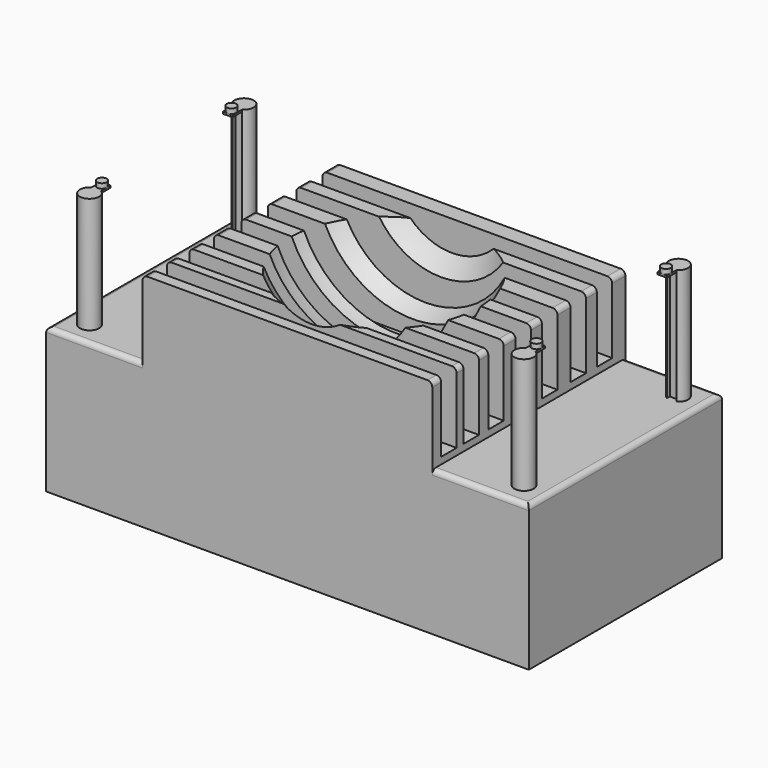
from build123d import *

# Parameters (mm, degrees)
F0_W      = 127
F0_H      = 63.5
F1_DEPTH  = 38.1
F2_W      = 76.2
F2_H      = 63.5
F3_DEPTH  = 20.32
F5_W      = 85.9366810061
F5_H      = 5.08
F6_DEPTH  = 34.798
F7_R      = 1.27
F12_R     = 2.54
F13_DEPTH = 30.48
F14_R     = 2.54
F15_DEPTH = 30.48
F17_W     = 2.54
F17_H     = 48.26
F18_DEPTH = 30.734
F19_W     = 2.54
F19_H     = 0.508
F20_DEPTH = 4.0894
F21_R     = 1.27
F22_DEPTH = 1.27
F23_W     = 2.54
F23_H     = 0.508
F24_DEPTH = 4.0894
F26_DEPTH = 1.27
F27_W     = 2.54
F27_H     = 0.508
F28_DEPTH = 4.0894
F29_R     = 1.27
F30_DEPTH = 1.27
F31_W     = 2.54
F31_H     = 0.508
F32_DEPTH = 4.0894
F33_R     = 1.27
F34_DEPTH = 1.27


with BuildPart() as f1:
    # F0 (on Top) → F1 (new body)
    with BuildSketch(Plane.XY):
        Rectangle(F0_W, F0_H)
    extrude(amount=F1_DEPTH)

    # F2 (on face) → F3 (join)
    with BuildSketch(Plane.XY.offset(38.1)):
        Rectangle(F2_W, F2_H)
    extrude(amount=F3_DEPTH)

    # F5 (on offset) → F6 (cut)
    with BuildSketch(Plane.XY.offset(74.676)):
        with Locations((1.5557501465, 24.8920014128)):
            Rectangle(F5_W, F5_H)
        with Locations((1.9367600847, 16.255996407)):
            Rectangle(F5_W, F5_H)
        with Locations((1.9685070086, 6.8579998174)):
            Rectangle(F5_W, F5_H)
        with Locations((2.1590034533, -1.8097495353)):
            Rectangle(F5_W, F5_H)
        with Locations((2.7622657884, -10.7949979296)):
            Rectangle(F5_W, F5_H)
        with Locations((2.2860284019, -18.9229918337)):
            Rectangle(F5_W, F5_H)
        with Locations((2.4130123723, -26.288997165)):
            Rectangle(F5_W, F5_H)
    extrude(amount=-F6_DEPTH, mode=Mode.SUBTRACT)

    # F7
    f7_edges = [f1.edges().sort_by_distance(p)[0] for p in [
        (-63.5, 0, 38.1),
        (-50.8, -31.75, 38.1),
        (-38.1, -6.302374, 58.42),
        (-38.1, -14.858995, 58.42),
        (-38.1, -30.289499, 58.42),
        (-38.1, -22.605994, 58.42),
        (-38.1, 11.556998, 58.42),
        (-38.1, 20.573999, 58.42),
        (-38.1, 29.591001, 58.42),
        (-38.1, 2.524125, 58.42),
        (-50.8, 31.75, 38.1),
        (63.5, 0, 38.1),
        (50.8, 31.75, 38.1),
        (50.8, -31.75, 38.1),
        (38.1, 2.524125, 58.42),
        (38.1, 11.556998, 58.42),
        (38.1, 20.573999, 58.42),
        (38.1, 29.591001, 58.42),
        (38.1, -6.302374, 58.42),
        (38.1, -14.858995, 58.42),
        (38.1, -22.605994, 58.42),
        (38.1, -30.289499, 58.42),
    ]]
    fillet(f7_edges, radius=F7_R)

    # F9 (on offset) → F11 (revolve, cut)
    with BuildSketch(Plane.XY.offset(69.342)):
        with BuildLine():
            Line((0, -27.1781864281), (0, 27.1781864281))
            ThreePointArc((0, 27.1781864281), (-27.1781864281, 0), (0, -27.1781864281))
        make_face()
    revolve(axis=Axis((0, 0.2222489566, 69.342), (0, -1, 0)), mode=Mode.SUBTRACT)

    # F12 (on face) → F13 (join)
    with BuildSketch(Plane.XY.offset(38.1)):
        with Locations((-57.15, 25.4)):
            Circle(F12_R)
        with Locations((-57.15, -25.4)):
            Circle(F12_R)
    extrude(amount=F13_DEPTH)

    # F14 (on face) → F15 (join)
    with BuildSketch(Plane.XY.offset(38.1)):
        with Locations((57.15, 25.4)):
            Circle(F14_R)
        with Locations((57.15, -25.4)):
            Circle(F14_R)
    extrude(amount=F15_DEPTH)

    # F17 (on offset) → F18 (cut)
    with BuildSketch(Plane.XY.offset(68.834)):
        with Locations((-57.15, 0)):
            Rectangle(F17_W, F17_H)
        with Locations((57.15, 0)):
            Rectangle(F17_W, F17_H)
    extrude(amount=-F18_DEPTH, mode=Mode.SUBTRACT)

    # F19 (on face) → F20 (join)
    with BuildSketch(Plane.XZ.offset(-24.13)):
        with Locations((-57.15, 68.326)):
            Rectangle(F19_W, F19_H)
    extrude(amount=F20_DEPTH)

    # F21 (on face) → F22 (join)
    with BuildSketch(Plane.XY.offset(68.58)):
        with Locations((-57.15, 21.3106)):
            Circle(F21_R)
    extrude(amount=F22_DEPTH)

    # F23 (on face) → F24 (join)
    with BuildSketch(Plane(origin=(0, -24.13, 0), x_dir=(-1, 0, 0), z_dir=(0, 1, 0))):
        with Locations((57.15, 68.326)):
            Rectangle(F23_W, F23_H)
    extrude(amount=F24_DEPTH)

    # F25 (on face) → F26 (join)
    with BuildSketch(Plane.XY.offset(68.58)):
        with BuildLine():
            ThreePointArc((-58.42, -21.3106), (-57.15, -22.5806), (-55.88, -21.3106))
            ThreePointArc((-55.88, -21.3106), (-56.2519743879, -20.4125743879), (-57.15, -20.0406))
            ThreePointArc((-57.15, -20.0406), (-58.0480256121, -20.4125743879), (-58.42, -21.3106))
        make_face()
    extrude(amount=F26_DEPTH)

    # F27 (on face) → F28 (join)
    with BuildSketch(Plane.XZ.offset(-24.13)):
        with Locations((57.15, 68.326)):
            Rectangle(F27_W, F27_H)
    extrude(amount=F28_DEPTH)

    # F29 (on face) → F30 (join)
    with BuildSketch(Plane.XY.offset(68.58)):
        with Locations((57.15, 21.3106)):
            Circle(F29_R)
    extrude(amount=F30_DEPTH)

    # F31 (on face) → F32 (join)
    with BuildSketch(Plane(origin=(0, -24.13, 0), x_dir=(-1, 0, 0), z_dir=(0, 1, 0))):
        with Locations((-57.15, 68.326)):
            Rectangle(F31_W, F31_H)
    extrude(amount=F32_DEPTH)

    # F33 (on face) → F34 (join)
    with BuildSketch(Plane.XY.offset(68.58)):
        with Locations((57.15, -21.3106)):
            Circle(F33_R)
    extrude(amount=F34_DEPTH)


solid = f1.part
